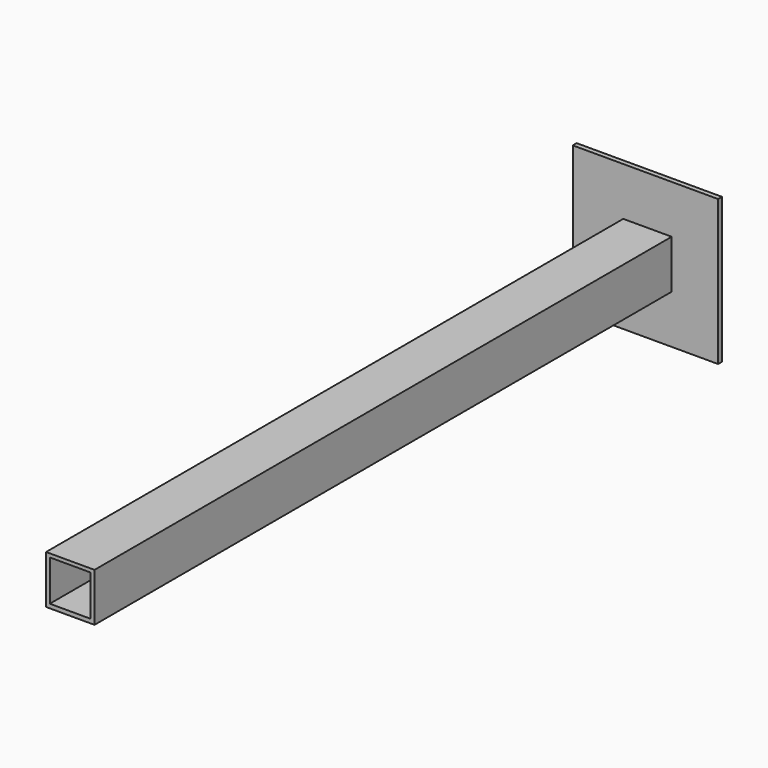
from build123d import *

# Parameters (mm, degrees)
F0_W     = 50
F0_H     = 50
F0_W_2   = 42.043511
F0_H_2   = 42.086583
F1_DEPTH = 750
F2_W     = 150
F2_H     = 150
F3_DEPTH = 5
F4_R     = 6.25
F5_DEPTH = 25


with BuildPart() as f1:
    # F0 (on Front) → F1 (new body)
    with BuildSketch(Plane.XZ):
        with Locations((-48.019424, 25)):
            Rectangle(F0_W, F0_H)
        with Locations((-48.149473, 25.268396)):
            Rectangle(F0_W_2, F0_H_2, mode=Mode.SUBTRACT)
    extrude(amount=F1_DEPTH)

    # F2 (on Front) → F3 (join)
    with BuildSketch(Plane.XZ):
        with Locations((-50.123258, 24.859246)):
            Rectangle(F2_W, F2_H)
    extrude(amount=F3_DEPTH)

    # F4 (on face) → F5 (cut)
    with BuildSketch(Plane(origin=(0, 0, 0), x_dir=(1, 0, 0), z_dir=(0, 0, -1))):
        with Locations((-50.928246, 550)):
            Circle(F4_R)
    extrude(amount=-F5_DEPTH, mode=Mode.SUBTRACT)


solid = f1.part
